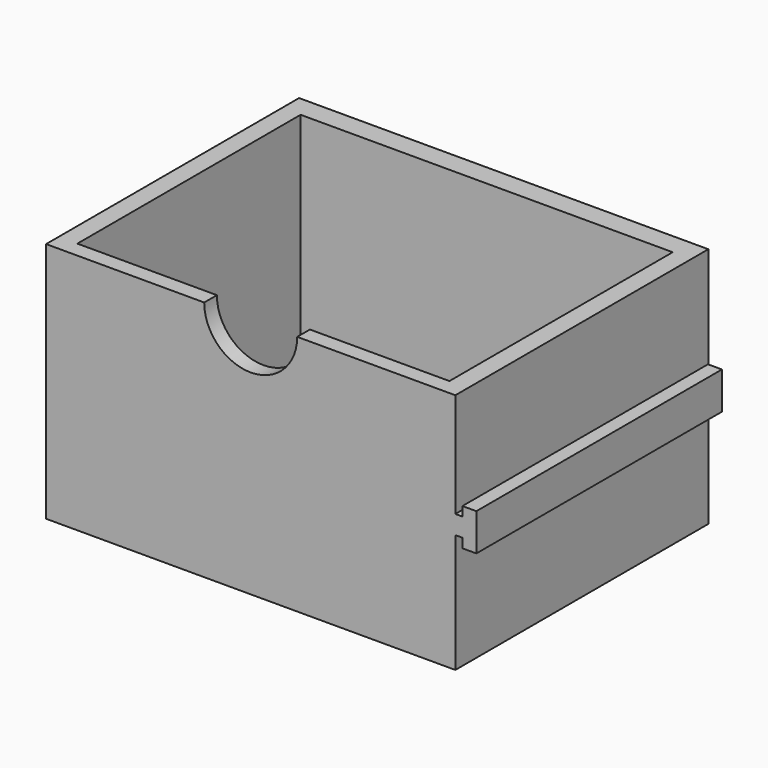
from build123d import *

# Parameters (mm, degrees)
F0_W     = 55.88
F0_H     = 33.02
F1_DEPTH = 43.18
F2_W     = 50.8
F2_H     = 38.1
F3_DEPTH = 30.48
F4_R     = 6.35
F5_DEPTH = 25.4
F6_R     = 3.2
F7_DEPTH = 1.6002
F9_DEPTH = 41.91


with BuildPart() as f1:
    # F0 (on Front) → F1 (new body)
    with BuildSketch(Plane.XZ):
        with Locations((-20.484024, 16.51)):
            Rectangle(F0_W, F0_H)
    extrude(amount=-F1_DEPTH)

    # F2 (on face) → F3 (cut)
    with BuildSketch(Plane.XY.offset(33.02)):
        with Locations((-20.484024, 21.216264)):
            Rectangle(F2_W, F2_H)
    extrude(amount=-F3_DEPTH, mode=Mode.SUBTRACT)

    # F4 (on face) → F5 (cut)
    with BuildSketch(Plane.XZ):
        with Locations((-20.484024, 33.02)):
            Circle(F4_R)
    extrude(amount=-F5_DEPTH, mode=Mode.SUBTRACT)

    # F6 (on face) → F7 (cut)
    with BuildSketch(Plane(origin=(0, 43.18, 0), x_dir=(-1, 0, 0), z_dir=(0, 1, 0))):
        with Locations((20.484024, 16.51)):
            Circle(F6_R)
    extrude(amount=-F7_DEPTH, mode=Mode.SUBTRACT)

    # F8 (on face) → F9 (join)
    with BuildSketch(Plane.XZ):
        Polygon((8.421195, 20.018721), (8.421195, 18.748721), (7.455976, 18.748721), (7.455976, 16.208721), (8.421195, 16.208721), (8.421195, 14.938721), (10.326195, 14.938721), (10.326195, 20.018721), align=None)
    extrude(amount=-F9_DEPTH)


solid = f1.part
